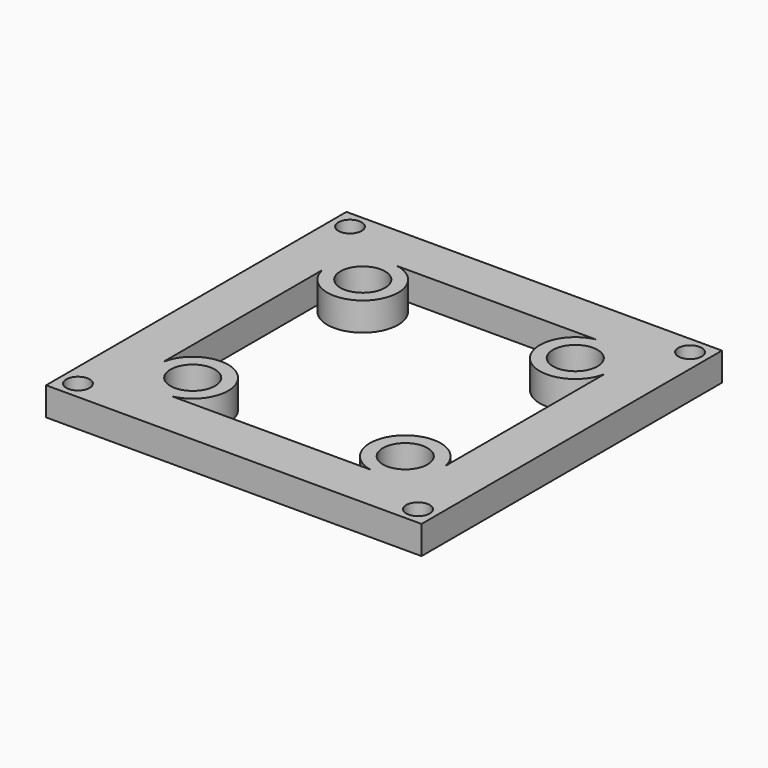
from build123d import *

# Parameters (mm, degrees)
SKETCH_W   = 53
SKETCH_H   = 53
SKETCH_R   = 1.65
SKETCH_R_2 = 3.15
PAD_DEPTH  = 4


with BuildPart() as part:
    # Sketch → Pad (new body)
    with BuildSketch(Plane.XY):
        with Locations((26.5, -26.5)):
            Rectangle(SKETCH_W, SKETCH_H)
        with Locations((2.5, -2.5)):
            Circle(SKETCH_R, mode=Mode.SUBTRACT)
        with Locations((50.5, -2.5)):
            Circle(SKETCH_R, mode=Mode.SUBTRACT)
        with Locations((50.5, -50.5)):
            Circle(SKETCH_R, mode=Mode.SUBTRACT)
        with Locations((2.5, -50.5)):
            Circle(SKETCH_R, mode=Mode.SUBTRACT)
        with Locations((11.5, -11.5)):
            Circle(SKETCH_R_2, mode=Mode.SUBTRACT)
        with Locations((41.5, -11.5)):
            Circle(SKETCH_R_2, mode=Mode.SUBTRACT)
        with Locations((41.5, -41.5)):
            Circle(SKETCH_R_2, mode=Mode.SUBTRACT)
        with Locations((11.5, -41.5)):
            Circle(SKETCH_R_2, mode=Mode.SUBTRACT)
        with BuildLine():
            ThreePointArc((6.601021, -12.5), (15.035534, -15.035534), (12.5, -6.601021))
            Line((40.5, -6.601021), (12.5, -6.601021))
            ThreePointArc((40.5, -6.601021), (37.964466, -15.035534), (46.398979, -12.5))
            Line((46.398979, -40.5), (46.398979, -12.5))
            ThreePointArc((46.398979, -40.5), (37.964466, -37.964466), (40.5, -46.398979))
            Line((12.5, -46.398979), (40.5, -46.398979))
            ThreePointArc((12.5, -46.398979), (15.035534, -37.964466), (6.601021, -40.5))
            Line((6.601021, -12.5), (6.601021, -40.5))
        make_face(mode=Mode.SUBTRACT)
    extrude(amount=PAD_DEPTH)


solid = part.part
